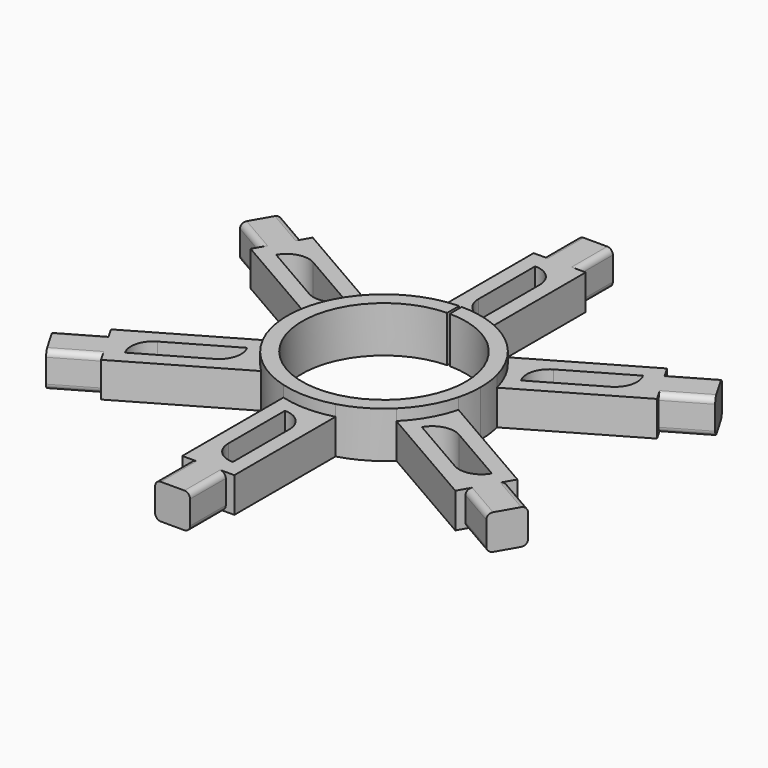
from build123d import *

# Parameters (mm, degrees)
F0_R     = 11
F2_DEPTH = 6.2
F0_W     = 4.7
F0_H     = 6
F3_DEPTH = 4.7
F4_COUNT = 6
F1_W     = 0.3503125627
F1_H     = 4.9452893436
F5_DEPTH = 25.4
F6_R     = 0.762


with BuildPart() as f2:
    # F0 (on Top) → F2 (new body)
    with BuildSketch(Plane.XY):
        with BuildLine():
            ThreePointArc((-3.5, 12.5199840255), (-7.8581168228, -10.3561575886), (13, 0))
            ThreePointArc((13, 0), (10.3561575886, 7.8581168228), (3.5, 12.5199840255))
            ThreePointArc((3.5, 12.5199840255), (0, 13), (-3.5, 12.5199840255))
        make_face()
        Circle(F0_R, mode=Mode.SUBTRACT)
    extrude(amount=F2_DEPTH)

    # F0 (on Top) → F3 (join)
    with BuildSketch(Plane.XY):
        with BuildLine():
            ThreePointArc((-3.5, 12.5199840255), (0, 13), (3.5, 12.5199840255))
            Line((3.5, 12.5199840255), (3.5, 29.5199840255))
            Line((3.5, 29.5199840255), (2.35, 29.5199840255))
            Line((2.35, 29.5199840255), (-2.35, 29.5199840255))
            Line((-2.35, 29.5199840255), (-3.5, 29.5199840255))
            Line((-3.5, 29.5199840255), (-3.5, 12.5199840255))
        make_face()
        with BuildLine():
            Line((1.5, 24.2727840255), (1.5, 14.7699840255))
            Line((1.5, 14.7699840255), (1.4972, 14.7699840255))
            ThreePointArc((1.4972, 14.7699840255), (-0.6221404446, 15.647843581), (-1.5, 17.7671840255))
            Line((-1.5, 17.7671840255), (-1.5, 27.2699840255))
            Line((-1.5, 27.2699840255), (-1.4972, 27.2699840255))
            ThreePointArc((-1.4972, 27.2699840255), (0.6221404446, 26.3921244701), (1.5, 24.2727840255))
        make_face(mode=Mode.SUBTRACT)
        with Locations((0, 32.5199840255)):
            Rectangle(F0_W, F0_H)
    extrude(amount=F3_DEPTH)

    # F4: F2 ×6 about axis
    f4_axis = Axis((0, 0, 0), (0, 0, 1))


with BuildPart() as f2_1:
    add(f2.part)
    for i in range(1, F4_COUNT):
        add(f2.part.rotate(f4_axis, i * 360 / F4_COUNT))

    # F1 (on Top) → F5 (cut)
    with BuildSketch(Plane.XY):
        with Locations((-0.128307729, 13.028617017)):
            Rectangle(F1_W, F1_H)
    extrude(amount=F5_DEPTH, mode=Mode.SUBTRACT)

    # F6
    f6_edges = [f2_1.edges().sort_by_distance(p)[0] for p in [
        (-26.988132, -18.295152, 4.7),
        (-29.338132, -14.224832, 4.7),
        (-26.988132, -18.295152, 0),
        (-29.338132, -14.224832, 0),
        (-2.35, -32.519984, 0),
        (-2.35, -32.519984, 4.7),
        (2.35, -32.519984, 4.7),
        (2.35, -32.519984, 0),
        (26.988132, -18.295152, 4.7),
        (26.988132, -18.295152, 0),
        (29.338132, -14.224832, 4.7),
        (29.338132, -14.224832, 0),
        (29.338132, 14.224832, 4.7),
        (29.338132, 14.224832, 0),
        (26.988132, 18.295152, 4.7),
        (26.988132, 18.295152, 0),
        (2.35, 32.519984, 4.7),
        (2.35, 32.519984, 0),
        (-2.35, 32.519984, 4.7),
        (-2.35, 32.519984, 0),
        (-26.988132, 18.295152, 4.7),
        (-26.988132, 18.295152, 0),
        (-29.338132, 14.224832, 4.7),
        (-29.338132, 14.224832, 0),
    ]]
    fillet(f6_edges, radius=F6_R)


solid = f2_1.part
